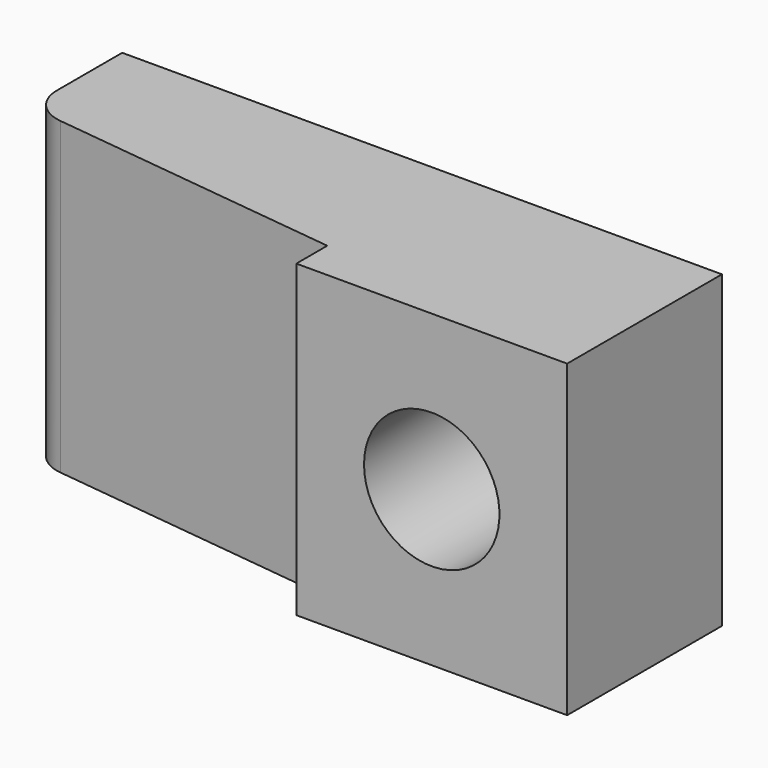
from build123d import *

# Parameters (mm, degrees)
F1_DEPTH = 8
F2_R     = 1.75
F3_DEPTH = 5
F4_R     = 1


with BuildPart() as f1:
    # F0 (on Top) → F1 (new body)
    with BuildSketch(Plane.XY):
        Polygon((4.049788, -3.174863), (4.049788, 1.825137), (-11.450212, 1.825137), (-11.450212, -1.174863), (-2.950212, -2.174863), (-2.950212, -3.174863), align=None)
    extrude(amount=F1_DEPTH)

    # F2 (on face) → F3 (cut, through all)
    with BuildSketch(Plane(origin=(0, 1.825137, 0), x_dir=(-1, 0, 0), z_dir=(0, 1, 0))):
        with Locations((-0.549788, 4)):
            Circle(F2_R)
    extrude(amount=-F3_DEPTH, mode=Mode.SUBTRACT)

    # F4
    f4_edges = [f1.edges().sort_by_distance(p)[0] for p in [
        (-11.450212, -1.174863, 4),
    ]]
    fillet(f4_edges, radius=F4_R)


solid = f1.part
